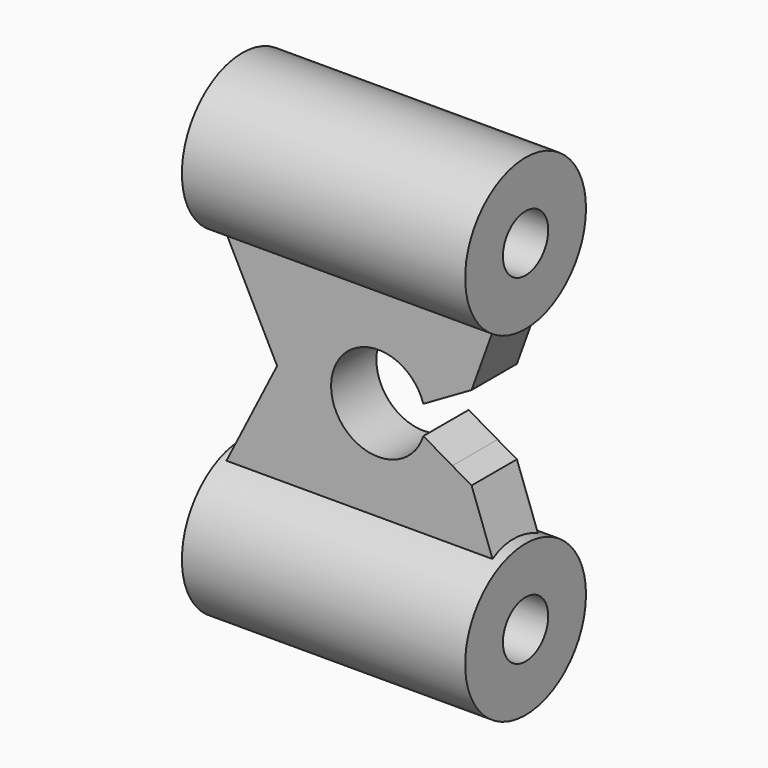
from build123d import *

# Parameters (mm, degrees)
F0_R     = 4
F0_R_2   = 1.5
F1_DEPTH = 15
F3_DEPTH = 1.5


with BuildPart() as f1:
    # F0 (on Right) → F1 (new body)
    with BuildSketch(Plane.YZ):
        Circle(F0_R)
        Circle(F0_R_2, mode=Mode.SUBTRACT)
    extrude(amount=F1_DEPTH)

    # F2 (on Front) → F3 (join, symmetric)
    with BuildSketch(Plane.XZ):
        with BuildLine():
            Line((14.70626425, -3), (0, -3))
            Line((0, -3), (4.5474985961, -11.9707668002))
            ThreePointArc((4.5474985961, -11.9707668002), (8.9263863781, -14.1716151823), (12.3194694103, -10.6353206038))
            Line((12.3194694103, -10.6353206038), (10.7860491436, -9.75))
            ThreePointArc((10.7860491436, -9.75), (5.90120114, -9), (10.7860491436, -8.25))
            Line((10.7860491436, -8.25), (13.3405016736, -6.7751861441))
            Line((13.3405016736, -6.7751861441), (14.70626425, -3))
        make_face()
    extrude(amount=F3_DEPTH, both=True)

    # F5: F1 across plane


with BuildPart() as f1_1:
    add(f1.part)
    add(f1.part.mirror(Plane.XY.offset(-9)))


solid = f1_1.part
